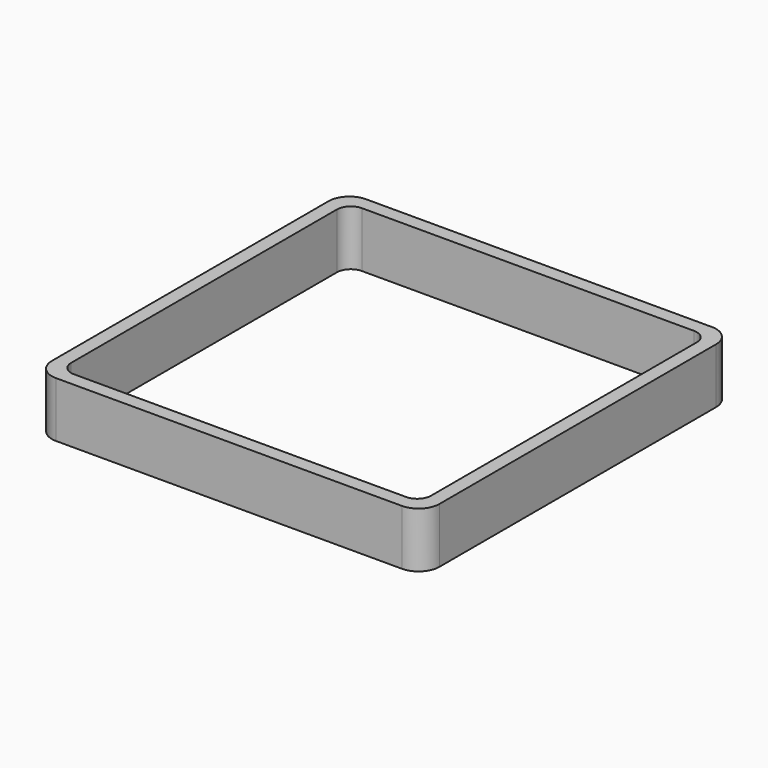
from build123d import *

# Parameters (mm, degrees)
EXTRUDE_DEPTH = 50


with BuildPart() as part:
    # Sketch → Extrude (new body)
    with BuildSketch(Plane.XY):
        with BuildLine():
            Line((-156.25, 175), (156.25, 175))
            ThreePointArc((175, 156.25), (169.508252, 169.508252), (156.25, 175))
            Line((175, 156.25), (175, -156.25))
            ThreePointArc((156.25, -175), (169.508252, -169.508252), (175, -156.25))
            Line((156.25, -175), (-156.25, -175))
            ThreePointArc((-175, -156.25), (-169.508252, -169.508252), (-156.25, -175))
            Line((-175, -156.25), (-175, 156.25))
            ThreePointArc((-156.25, 175), (-169.508252, 169.508252), (-175, 156.25))
        make_face()
        with BuildLine():
            Line((-150, 162.5), (150, 162.5))
            ThreePointArc((162.5, 150), (158.838835, 158.838835), (150, 162.5))
            Line((162.5, 150), (162.5, -150))
            ThreePointArc((150, -162.5), (158.838835, -158.838835), (162.5, -150))
            Line((150, -162.5), (-150, -162.5))
            ThreePointArc((-162.5, -150), (-158.838835, -158.838835), (-150, -162.5))
            Line((-162.5, -150), (-162.5, 150))
            ThreePointArc((-150, 162.5), (-158.838835, 158.838835), (-162.5, 150))
        make_face(mode=Mode.SUBTRACT)
    extrude(amount=EXTRUDE_DEPTH)


solid = part.part
